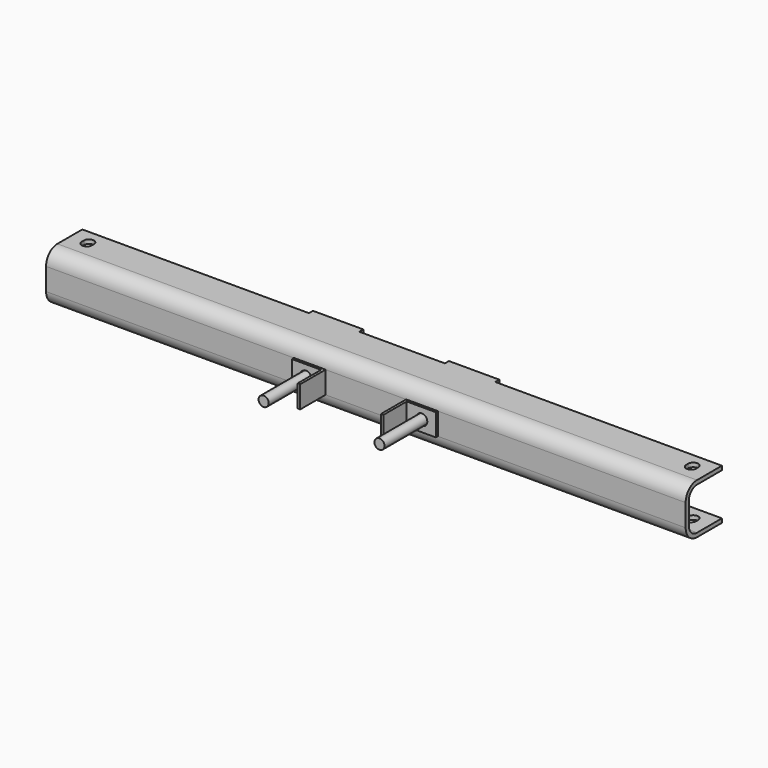
from build123d import *

# Parameters (mm, degrees)
F1_DEPTH      = 635
F3_DEPTH      = 22
F4_W          = 100
F4_H          = 100
F5_DEPTH      = 10
F6_R          = 11
F7_DEPTH      = 8
F7_DEPTH_BACK = 63.001
F9_DEPTH      = 50.001
F9_DEPTH_BACK = 50.001
F10_R         = 10
F11_DEPTH     = 200


with BuildPart() as f1:
    # F0 (on Right) → F1 (new body, symmetric)
    with BuildSketch(Plane.YZ):
        with BuildLine():
            Line((90, 42), (90, 50))
            Line((90, 50), (28, 50))
            ThreePointArc((28, 50), (8.2010101268, 41.7989898732), (0, 22))
            Line((0, 22), (0, -22))
            ThreePointArc((0, -22), (8.2010101268, -41.7989898732), (28, -50))
            Line((28, -50), (90, -50))
            Line((90, -50), (90, -42))
            Line((90, -42), (28, -42))
            ThreePointArc((28, -42), (13.8578643763, -36.1421356237), (8, -22))
            Line((8, -22), (8, 22))
            ThreePointArc((8, 22), (13.8578643763, 36.1421356237), (28, 42))
            Line((28, 42), (90, 42))
        make_face()
    extrude(amount=F1_DEPTH, both=True)

    # F2 (on Top) → F3 (join, symmetric)
    with BuildSketch(Plane.XY):
        Polygon((-80, 0), (-143, 0), (-143, -5), (-85, -5), (-85, -63), (-80, -63), align=None)
        Polygon((80, -63), (85, -63), (85, -5), (143, -5), (143, 0), (80, 0), align=None)
    extrude(amount=F3_DEPTH, both=True)

    # F4 (on face) → F5 (join)
    with BuildSketch(Plane(origin=(0, 90, 0), x_dir=(-1, 0, 0), z_dir=(0, 1, 0))):
        with Locations((-135, 0)):
            Rectangle(F4_W, F4_H)
        with Locations((135, 0)):
            Rectangle(F4_W, F4_H)
    extrude(amount=F5_DEPTH)

    # F6 (on Front) → F7 (cut, two sides)
    with BuildSketch(Plane.XZ) as f7_sk:
        with Locations((-115, 0)):
            Circle(F6_R)
        with Locations((115, 0)):
            Circle(F6_R)
    extrude(amount=-F7_DEPTH, mode=Mode.SUBTRACT)
    extrude(f7_sk.sketch, amount=F7_DEPTH_BACK, mode=Mode.SUBTRACT)

    # F8 (on Top) → F9 (cut, two sides)
    with BuildSketch(Plane.XY) as f9_sk:
        with BuildLine():
            Line((-590, 57.5), (-590, 62.5))
            ThreePointArc((-590, 62.5), (-600, 72.5), (-610, 62.5))
            Line((-610, 62.5), (-610, 57.5))
            ThreePointArc((-610, 57.5), (-600, 47.5), (-590, 57.5))
        make_face()
        with BuildLine():
            ThreePointArc((610, 62.5), (600, 72.5), (590, 62.5))
            Line((590, 62.5), (590, 57.5))
            ThreePointArc((590, 57.5), (600, 47.5), (610, 57.5))
            Line((610, 57.5), (610, 62.5))
        make_face()
    extrude(amount=F9_DEPTH, mode=Mode.SUBTRACT)
    extrude(f9_sk.sketch, amount=-F9_DEPTH_BACK, mode=Mode.SUBTRACT)

    # F10 (on face) → F11 (join)
    with BuildSketch(Plane.XZ.offset(-90)):
        with Locations((-115, 0)):
            Circle(F10_R)
        with Locations((115, 0)):
            Circle(F10_R)
    extrude(amount=F11_DEPTH)


solid = f1.part
